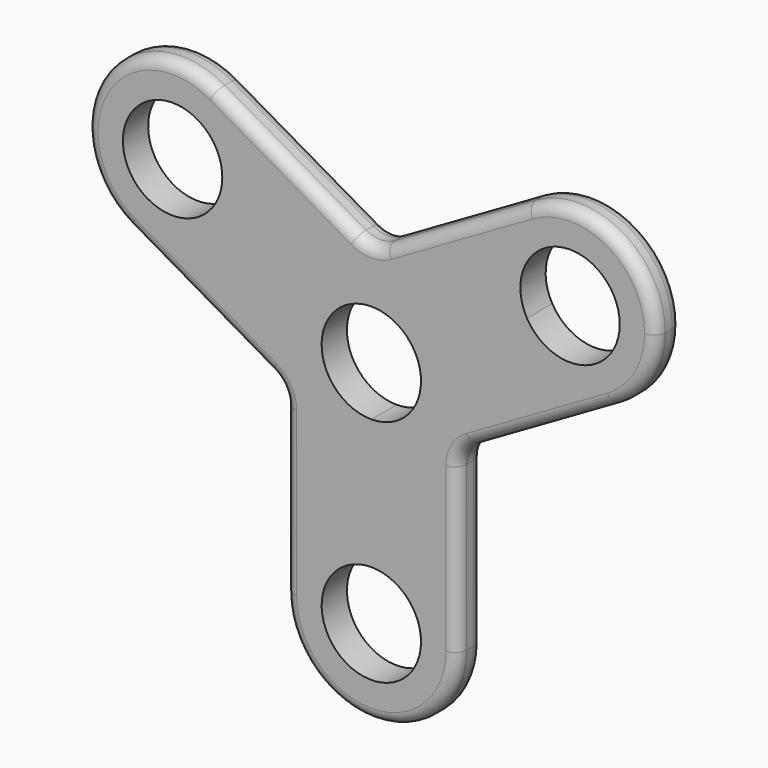
from build123d import *

# Parameters (mm, degrees)
F1_DEPTH = 6.9977
F2_R     = 2.54


with BuildPart() as f1:
    # F0 (on Front) → F1 (new body)
    with BuildSketch(Plane.XZ):
        with BuildLine():
            ThreePointArc((16.4977839421, 15.875), (18.4008869908, 11.2805028092), (19.05, 6.35))
            ThreePointArc((19.05, 6.35), (13.4703841816, -7.1203841816), (0, -12.7))
            Line((0, -12.7), (0, -25.4))
            ThreePointArc((0, -25.4), (13.4703841816, -30.9796158184), (19.05, -44.45))
            Line((19.05, -44.45), (19.05, -8.3146968374))
            ThreePointArc((19.05, -8.3146968374), (19.900738686, -5.1396968374), (22.225, -2.8154355234))
            Line((22.225, -2.8154355234), (53.5190905122, 15.2522160579))
            ThreePointArc((53.5190905122, 15.2522160579), (39.063587703, 13.3491130092), (27.4963065702, 22.225))
            Line((27.4963065702, 22.225), (16.4977839421, 15.875))
        make_face()
        with BuildLine():
            ThreePointArc((-16.4977839421, 15.875), (0, 25.4), (16.4977839421, 15.875))
            Line((16.4977839421, 15.875), (27.4963065702, 22.225))
            ThreePointArc((27.4963065702, 22.225), (25.5932035214, 36.6805028092), (34.4690905122, 48.2477839421))
            Line((34.4690905122, 48.2477839421), (3.175, 30.1801323608))
            ThreePointArc((3.175, 30.1801323608), (0, 29.3293936748), (-3.175, 30.1801323608))
            Line((-3.175, 30.1801323608), (-34.4690905122, 48.2477839421))
            ThreePointArc((-34.4690905122, 48.2477839421), (-27.4963065702, 41.275), (-24.9440905122, 31.75))
            ThreePointArc((-24.9440905122, 31.75), (-25.5932035214, 26.8194971908), (-27.4963065702, 22.225))
            Line((-27.4963065702, 22.225), (-16.4977839421, 15.875))
        make_face()
        with BuildLine():
            Line((0, -25.4), (0, -12.7))
            ThreePointArc((0, -12.7), (-16.4977839421, -3.175), (-16.4977839421, 15.875))
            Line((-16.4977839421, 15.875), (-27.4963065702, 22.225))
            ThreePointArc((-27.4963065702, 22.225), (-39.063587703, 13.3491130092), (-53.5190905122, 15.2522160579))
            Line((-53.5190905122, 15.2522160579), (-22.225, -2.8154355234))
            ThreePointArc((-22.225, -2.8154355234), (-19.900738686, -5.1396968374), (-19.05, -8.3146968374))
            Line((-19.05, -8.3146968374), (-19.05, -44.45))
            ThreePointArc((-19.05, -44.45), (-13.4703841816, -30.9796158184), (0, -25.4))
        make_face()
        with BuildLine():
            ThreePointArc((34.4690905122, 48.2477839421), (25.5932035214, 36.6805028092), (27.4963065702, 22.225))
            ThreePointArc((27.4963065702, 22.225), (39.063587703, 13.3491130092), (53.5190905122, 15.2522160579))
            ThreePointArc((53.5190905122, 15.2522160579), (60.4918744543, 22.225), (63.0440905122, 31.75))
            ThreePointArc((63.0440905122, 31.75), (53.5190905122, 48.2477839421), (34.4690905122, 48.2477839421))
        make_face()
        with BuildLine():
            ThreePointArc((54.9940939122, 31.75), (46.8411008884, 21.1248126267), (34.4678081261, 26.2499983))
            ThreePointArc((34.4678081261, 26.2499983), (41.1470801361, 42.3751873733), (54.9940939122, 31.75))
        make_face(mode=Mode.SUBTRACT)
        with BuildLine():
            ThreePointArc((19.05, -44.45), (13.4703841816, -30.9796158184), (0, -25.4))
            ThreePointArc((0, -25.4), (-13.4703841816, -30.9796158184), (-19.05, -44.45))
            ThreePointArc((-19.05, -44.45), (0, -63.5), (19.05, -44.45))
        make_face()
        with BuildLine():
            ThreePointArc((11.0000034, -44.45), (-7.7781769972, -52.2281769972), (0, -33.4499966))
            ThreePointArc((0, -33.4499966), (7.7781769972, -36.6718230028), (11.0000034, -44.45))
        make_face(mode=Mode.SUBTRACT)
        with BuildLine():
            ThreePointArc((-53.5190905122, 15.2522160579), (-39.063587703, 13.3491130092), (-27.4963065702, 22.225))
            ThreePointArc((-27.4963065702, 22.225), (-25.5932035214, 26.8194971908), (-24.9440905122, 31.75))
            ThreePointArc((-24.9440905122, 31.75), (-27.4963065702, 41.275), (-34.4690905122, 48.2477839421))
            ThreePointArc((-34.4690905122, 48.2477839421), (-60.4918744543, 41.275), (-53.5190905122, 15.2522160579))
        make_face()
        with BuildLine():
            ThreePointArc((-32.9940871122, 31.75), (-33.3689031389, 28.9029896239), (-34.4678081261, 26.2499983))
            ThreePointArc((-34.4678081261, 26.2499983), (-54.6192778856, 34.5970103761), (-32.9940871122, 31.75))
        make_face(mode=Mode.SUBTRACT)
        with BuildLine():
            ThreePointArc((-16.4977839421, 15.875), (-16.4977839421, -3.175), (0, -12.7))
            Line((0, -12.7), (0, -4.6500034))
            ThreePointArc((0, -4.6500034), (-9.5262823861, 0.8499983), (-9.5262823861, 11.8500017))
            Line((-9.5262823861, 11.8500017), (-16.4977839421, 15.875))
        make_face()
        with BuildLine():
            ThreePointArc((0, -12.7), (13.4703841816, -7.1203841816), (19.05, 6.35))
            ThreePointArc((19.05, 6.35), (18.4008869908, 11.2805028092), (16.4977839421, 15.875))
            Line((16.4977839421, 15.875), (9.5262823861, 11.8500017))
            ThreePointArc((9.5262823861, 11.8500017), (10.6251873733, 9.1970103761), (11.0000034, 6.35))
            ThreePointArc((11.0000034, 6.35), (7.7781769972, -1.4281769972), (0, -4.6500034))
            Line((0, -4.6500034), (0, -12.7))
        make_face()
        with BuildLine():
            Line((9.5262823861, 11.8500017), (16.4977839421, 15.875))
            ThreePointArc((16.4977839421, 15.875), (0, 25.4), (-16.4977839421, 15.875))
            Line((-16.4977839421, 15.875), (-9.5262823861, 11.8500017))
            ThreePointArc((-9.5262823861, 11.8500017), (0, 17.3500034), (9.5262823861, 11.8500017))
        make_face()
    extrude(amount=F1_DEPTH)

    # F2
    f2_edges = [f1.edges().sort_by_distance(p)[0] for p in [
        (0, -6.9977, -63.5),
        (0, 0, -63.5),
    ]]
    fillet(f2_edges, radius=F2_R)


solid = f1.part
